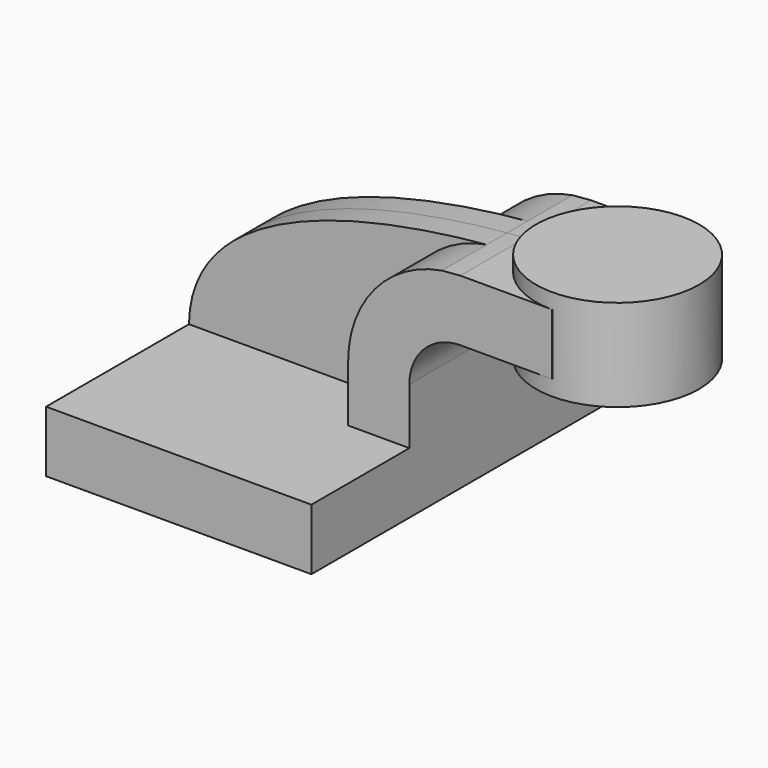
from build123d import *

# Parameters (mm, degrees)
F1_DEPTH = 63.5
F0_W     = 25.4
F0_H     = 19.05
F2_DEPTH = 25.4
F3_DEPTH = 7.9375


with BuildPart() as f1:
    # F0 (on Front) → F1 (new body, symmetric)
    with BuildSketch(Plane.XZ):
        Polygon((41.275, -9.525), (41.275, 9.525), (22.225, 9.525), (-41.275, 9.525), (-41.275, -9.525), align=None)
    extrude(amount=F1_DEPTH, both=True)

    # F0 (on Front) → F2 (join, symmetric)
    with BuildSketch(Plane.XZ):
        with BuildLine():
            Line((22.225, 9.525), (41.275, 9.525))
            Line((41.275, 9.525), (41.275, 27.0002))
            ThreePointArc((41.275, 27.0002), (45.92468, 38.22552), (57.15, 42.8752))
            Line((57.15, 42.8752), (60.325, 42.8752))
            Line((60.325, 42.8752), (60.325, 61.9252))
            Line((60.325, 61.9252), (57.15, 61.9252))
            add(Edge.make_bspline(
                [(51.378815, 61.44507), (53.334989, 61.625336), (55.261247, 61.784787), (57.15, 61.9252)],
                knots=[106.284951, 106.284951, 106.284951, 106.284951, 111.504536, 111.504536, 111.504536, 111.504536], degree=3))
            ThreePointArc((51.378815, 61.44507), (30.491847, 49.563411), (22.225, 27.0002))
            Line((22.225, 27.0002), (22.225, 9.525))
        make_face()
        with Locations((73.025, 52.4002)):
            Rectangle(F0_W, F0_H)
    extrude(amount=F2_DEPTH, both=True)

    # F0 (on Front) → F3 (join, symmetric)
    with BuildSketch(Plane.XZ):
        with BuildLine():
            Line((-41.275, 9.525), (22.225, 9.525))
            Line((22.225, 9.525), (22.225, 27.0002))
            ThreePointArc((22.225, 27.0002), (30.491847, 49.563411), (51.378815, 61.44507))
            add(Edge.make_bspline(
                [(-41.275, 9.525), (-40.69216, 45.472514), (11.545778, 57.774351), (51.378815, 61.44507)],
                knots=[0, 0, 0, 0, 106.284951, 106.284951, 106.284951, 106.284951], degree=3))
        make_face()
    extrude(amount=F3_DEPTH, both=True)


with BuildPart() as f4:
    # F0 (on Front) → F4 (revolve)
    with BuildSketch(Plane.XZ):
        Polygon((85.725, 61.9252), (85.725, 42.8752), (85.725, 38.1), (111.125, 38.1), (111.125, 66.675), (85.725, 66.675), align=None)
    revolve(axis=Axis((85.725, 0, 52.4002), (0, 0, -1)))


solid = Compound([f1.part, f4.part])
